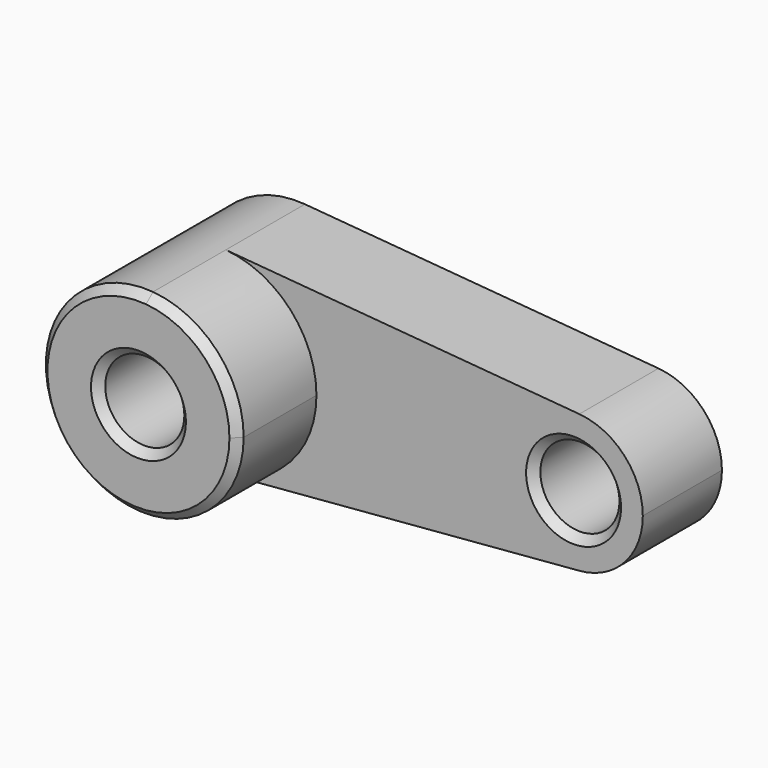
from build123d import *

# Parameters (mm, degrees)
F0_R     = 10
F1_DEPTH = 25
F2_DEPTH = 50
F3_SIZE  = 2


with BuildPart() as f1:
    # F0 (on Front) → F1 (new body)
    with BuildSketch(Plane.XZ):
        with BuildLine():
            ThreePointArc((2.084127, -24.912977), (18.399771, -16.924787), (25, 0))
            ThreePointArc((25, 0), (18.399502, 16.92508), (2.083333, 24.913043))
            ThreePointArc((2.083333, 24.913043), (-25, -0.000398), (2.084127, -24.912977))
        make_face()
        Circle(F0_R, mode=Mode.SUBTRACT)
        with BuildLine():
            ThreePointArc((2.083333, 24.913043), (18.399502, 16.92508), (25, 0))
            ThreePointArc((25, 0), (18.399771, -16.924787), (2.084127, -24.912977))
            Line((2.084127, -24.912977), (91.143522, -17.462599))
            ThreePointArc((91.143522, -17.462599), (72.500712, 0.157842), (91.458333, 17.43913))
            Line((91.458333, 17.43913), (2.083333, 24.913043))
        make_face()
        with BuildLine():
            ThreePointArc((107.5, 0), (102.879651, 11.847556), (91.458333, 17.43913))
            ThreePointArc((91.458333, 17.43913), (72.500712, 0.157842), (91.143522, -17.462599))
            ThreePointArc((91.143522, -17.462599), (102.772268, -11.963243), (107.5, 0))
        make_face()
        with Locations((90, 0)):
            Circle(F0_R, mode=Mode.SUBTRACT)
    extrude(amount=F1_DEPTH)

    # F0 (on Front) → F2 (join)
    with BuildSketch(Plane.XZ):
        with BuildLine():
            ThreePointArc((2.084127, -24.912977), (18.399771, -16.924787), (25, 0))
            ThreePointArc((25, 0), (18.399502, 16.92508), (2.083333, 24.913043))
            ThreePointArc((2.083333, 24.913043), (-25, -0.000398), (2.084127, -24.912977))
        make_face()
        Circle(F0_R, mode=Mode.SUBTRACT)
    extrude(amount=F2_DEPTH)

    # F3
    f3_edges = [f1.edges().sort_by_distance(p)[0] for p in [
        (-2.084127, -50, 24.912977),
        (-10, -50, 0),
        (100, -12.5, 0),
        (80, 0, 0),
        (80, -25, 0),
    ]]
    chamfer(f3_edges, length=F3_SIZE)


solid = f1.part
